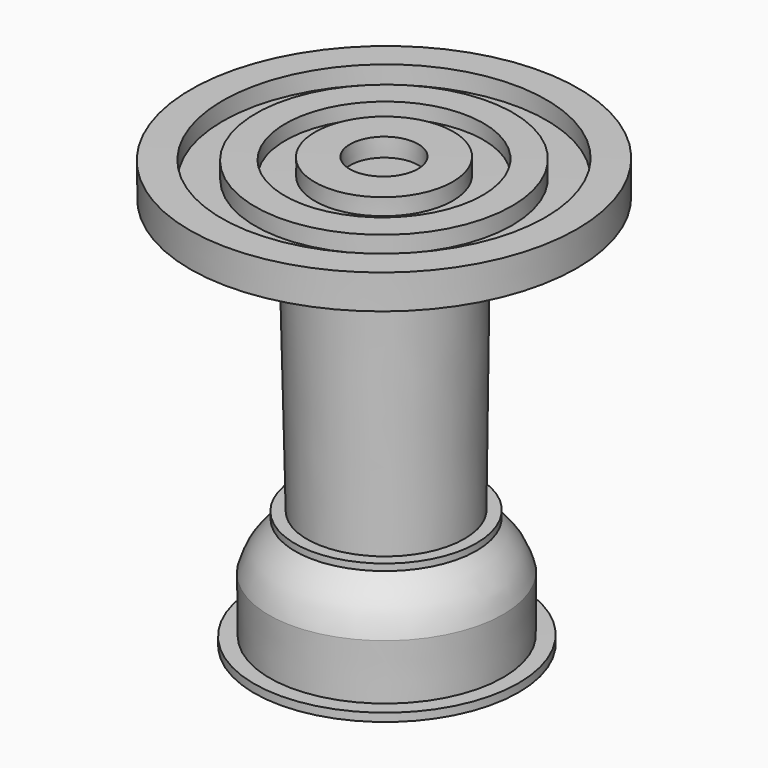
from build123d import *


with BuildPart() as f1:
    # F0 (on Front) → F1 (revolve)
    with BuildSketch(Plane.XZ):
        with BuildLine():
            Line((4.5143341753, -4.3006491445), (4.8665297218, 29.8076476902))
            Line((4.8665297218, 29.8076476902), (15.1177551597, 29.8076476902))
            Line((15.1177551597, 29.8076476902), (18.4809826314, 29.8076476902))
            Line((18.4809826314, 29.8076476902), (18.4809826314, 34.0604297817))
            Line((18.4809826314, 34.0604297817), (14.5479189232, 34.0604297817))
            Line((14.5479189232, 34.0604297817), (14.5479189232, 31.8417809904))
            Line((14.5479189232, 31.8417809904), (10.413158685, 31.8417809904))
            Line((10.413158685, 31.8417809904), (10.413158685, 33.9595861733))
            Line((10.413158685, 33.9595861733), (6.7826374434, 33.9595861733))
            Line((6.7826374434, 33.9595861733), (6.7826374434, 32.1443229914))
            Line((6.7826374434, 32.1443229914), (3.0619536992, 32.1443229914))
            Line((3.0619536992, 32.1443229914), (3.0619536992, 34.2173911631))
            Line((3.0619536992, 34.2173911631), (-1.2554875575, 34.2173911631))
            Line((-1.2554875575, 34.2173911631), (-1.2554875575, 31.9387428463))
            Line((-1.2554875575, 31.9387428463), (-5.4606664926, 31.9387428463))
            Line((-5.4606664926, 31.9387428463), (-5.117402412, -18.8897587359))
            Line((-5.117402412, -18.8897587359), (11.2336110324, -18.8897587359))
            Line((11.2336110324, -18.8897587359), (11.2336110324, -17.870362848))
            Line((11.2336110324, -17.870362848), (9.3235522509, -17.870362848))
            Line((9.3235522509, -17.870362848), (9.3235522509, -10.993424803))
            add(Edge.make_bspline(
                [(4.4993474148, -5.128914956), (4.9297158996, -5.4351701742), (5.788696219, -6.0464305579), (7.0241461042, -7.0064449477), (8.0186108337, -8.1847141484), (8.7726157993, -9.3142207885), (9.131741148, -10.4088020701), (9.3235522509, -10.993424803)],
                knots=[0, 0, 0, 0, 0.2018948913, 0.402965701, 0.6005252736, 0.7866380413, 1, 1, 1, 1], degree=3))
            Line((4.4993474148, -5.128914956), (5.9968610294, -5.128914956))
            Line((5.9968610294, -5.128914956), (5.9968610294, -4.3006491445))
            Line((5.9968610294, -4.3006491445), (4.5143341753, -4.3006491445))
        make_face()
    revolve(axis=Axis((-5.2890344523, 0, 6.5244920552), (0.0067532239, 0, -0.9999771967)))


solid = f1.part
